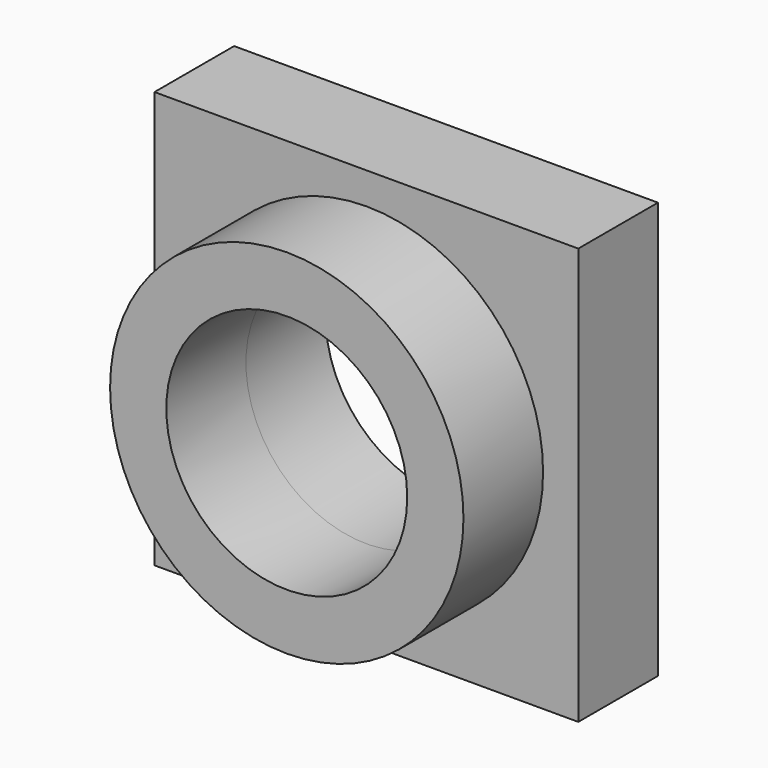
from build123d import *

# Parameters (mm, degrees)
F0_W     = 108.1513464451
F0_H     = 106.336735189
F1_DEPTH = 25.4
F2_R     = 30.7442953742
F3_DEPTH = 25.401
F4_R     = 45.0892018552
F4_R_2   = 30.7442953742
F5_DEPTH = 25.4


with BuildPart() as f1:
    # F0 (on Front) → F1 (new body)
    with BuildSketch(Plane.XZ):
        Rectangle(F0_W, F0_H)
    extrude(amount=F1_DEPTH)

    # F2 (on face) → F3 (cut, through all)
    with BuildSketch(Plane.XZ.offset(25.4)):
        Circle(F2_R)
    extrude(amount=-F3_DEPTH, mode=Mode.SUBTRACT)

    # F4 (on face) → F5 (join)
    with BuildSketch(Plane.XZ.offset(25.4)):
        Circle(F4_R)
        Circle(F4_R_2, mode=Mode.SUBTRACT)
    extrude(amount=F5_DEPTH)


solid = f1.part
